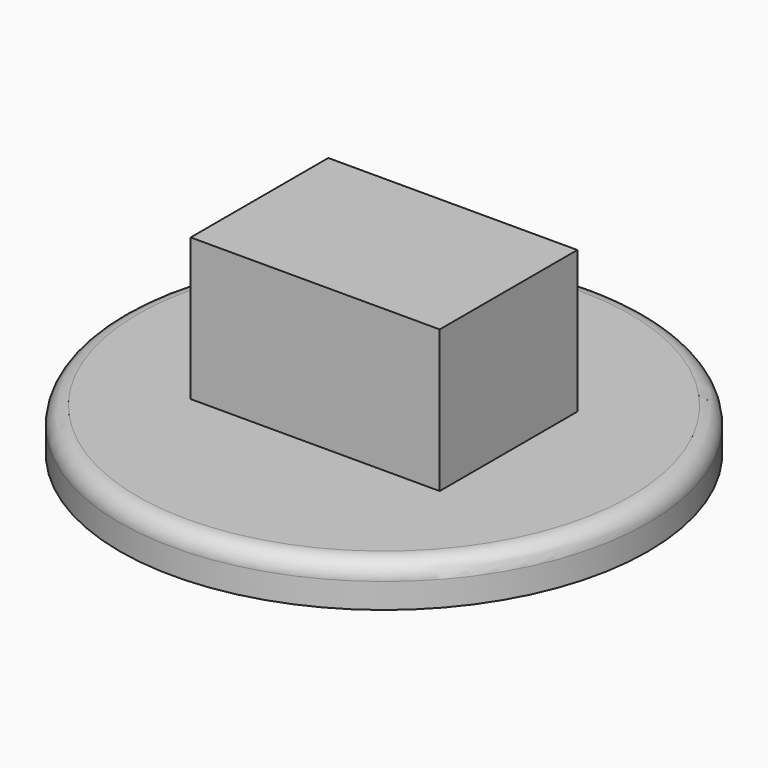
from build123d import *

# Parameters (mm, degrees)
F0_R     = 47.137845
F1_DEPTH = 7.61904
F2_R     = 3.146541
F4_W     = 44.450962
F4_H     = 30.703868
F5_DEPTH = 25.4


with BuildPart() as f1:
    # F0 (on Top) → F1 (new body)
    with BuildSketch(Plane.XY):
        Circle(F0_R)
        Circle(F0_R)
    extrude(amount=F1_DEPTH)

    # F2
    f2_edges = [f1.edges().sort_by_distance(p)[0] for p in [
        (-47.137845, 0, 7.61904),
    ]]
    fillet(f2_edges, radius=F2_R)

    # F4 (on face) → F5 (join)
    with BuildSketch(Plane.XY.offset(7.61904)):
        Rectangle(F4_W, F4_H)
    extrude(amount=F5_DEPTH)


solid = f1.part
